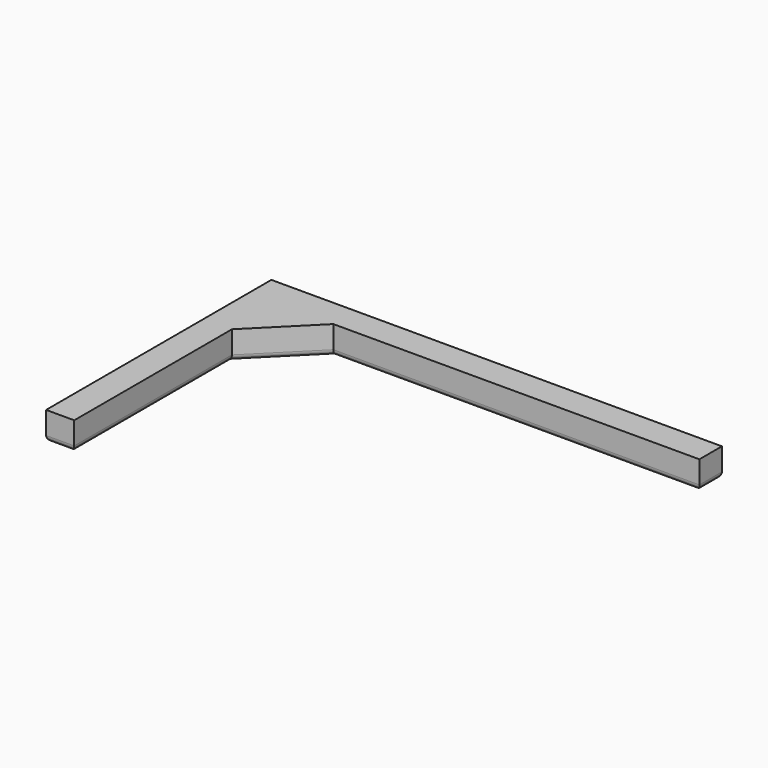
from build123d import *

# Parameters (mm, degrees)
F1_DEPTH = 5
F2_R     = 1


with BuildPart() as f1:
    # F0 (on Top) → F1 (new body)
    with BuildSketch(Plane.XY):
        Polygon((80, 0), (0, 0), (0, -50), (5, -50), (5, -15), (15, -5), (80, -5), align=None)
    extrude(amount=F1_DEPTH)

    # F2
    f2_edges = [f1.edges().sort_by_distance(p)[0] for p in [
        (40, 0, 0),
        (0, -25, 0),
        (80, -2.5, 0),
        (47.5, -5, 0),
        (10, -10, 0),
        (5, -32.5, 0),
        (2.5, -50, 0),
    ]]
    fillet(f2_edges, radius=F2_R)


solid = f1.part
